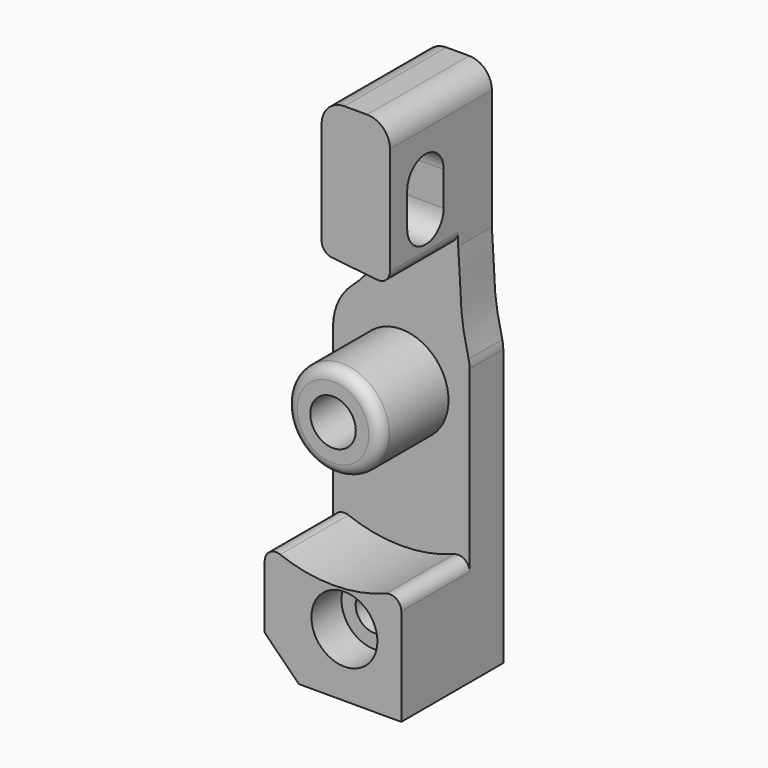
from build123d import *

# Parameters (mm, degrees)
F0_R      = 1.65
F0_R_2    = 2
F1_DEPTH  = 3.7
F2_R      = 4.15
F2_R_2    = 2
F2_R_3    = 1.65
F3_DEPTH  = 7.5
F4_R      = 2
F5_R      = 1
F6_R      = 2.9
F7_DEPTH  = 3.3
F8_R      = 1
F10_DEPTH = 11.0010001
F11_SIZE  = 3


with BuildPart() as f1:
    # F0 (on Front) → F1 (new body)
    with BuildSketch(Plane.XZ):
        with BuildLine():
            Line((5, 23), (-1, 23))
            Line((-1, 23), (-1, 10.4))
            add(Edge.make_bspline(
                [(-1, 10.4), (-1.2111639775, 7.9330686148), (-2.6557673414, 5.8471197981), (-4.3304576575, 4.3515548571)],
                knots=[0, 0, 0, 0, 6.6865737794, 6.6865737794, 6.6865737794, 6.6865737794], degree=3))
            ThreePointArc((-4.3304576575, 4.3515548571), (-5.5635670417, 2.6652064856), (-6, 0.6222048076))
            Line((-6, 0.6222048076), (-6, -23))
            Line((-6, -23), (6, -23))
            Line((6, -23), (6, 1.2846305262))
            ThreePointArc((6, 1.2846305262), (5.9790845004, 1.6382624525), (5.9166296405, 1.9869634531))
            add(Edge.make_bspline(
                [(5, 10.4), (5.3525537919, 5.8237470378), (5.0164384354, 5.7252537292), (5.9166296405, 1.9869634531)],
                knots=[0, 0, 0, 0, 8.5585174857, 8.5585174857, 8.5585174857, 8.5585174857], degree=3))
            Line((5, 10.4), (5, 23))
        make_face()
        with Locations((1, -17.45)):
            Circle(F0_R, mode=Mode.SUBTRACT)
        with Locations((0, -1.77)):
            Circle(F0_R_2, mode=Mode.SUBTRACT)
    extrude(amount=F1_DEPTH)

    # F2 (on face) → F3 (join)
    with BuildSketch(Plane.XZ.offset(3.7)):
        with Locations((0, -1.77)):
            Circle(F2_R)
        with Locations((0, -1.77)):
            Circle(F2_R_2, mode=Mode.SUBTRACT)
        with BuildLine():
            Line((-6, -12.9), (-6, -23))
            Line((-6, -23), (6, -23))
            Line((6, -23), (6, -12.9))
            ThreePointArc((6, -12.9), (0, -14.3674374053), (-6, -12.9))
        make_face()
        with Locations((1, -17.45)):
            Circle(F2_R_3, mode=Mode.SUBTRACT)
        Polygon((5, 23), (-1, 23), (-1, 11.03), (5, 10.4), (5, 10.44), align=None)
    extrude(amount=F3_DEPTH)

    # F4
    f4_edges = [f1.edges().sort_by_distance(p)[0] for p in [
        (5, -5.6, 23),
        (-1, -5.6, 23),
    ]]
    fillet(f4_edges, radius=F4_R)

    # F5
    f5_edges = [f1.edges().sort_by_distance(p)[0] for p in [
        (-1, -7.45, 11.03),
        (5, -7.45, 10.4),
        (6, -7.45, -12.9),
        (-6, -7.45, -12.9),
    ]]
    fillet(f5_edges, radius=F5_R)

    # F6 (on face) → F7 (cut)
    with BuildSketch(Plane.XZ.offset(11.2)):
        with Locations((1, -17.45)):
            Circle(F6_R)
    extrude(amount=-F7_DEPTH, mode=Mode.SUBTRACT)

    # F8
    f8_edges = [f1.edges().sort_by_distance(p)[0] for p in [
        (-4.15, -11.2, -1.77),
    ]]
    fillet(f8_edges, radius=F8_R)

    # F9 (on face) → F10 (cut, through all)
    with BuildSketch(Plane.YZ.offset(5)):
        with BuildLine():
            Line((-5.3, 14.0104973894), (-5.3, 17.0104973894))
            ThreePointArc((-5.3, 17.0104973894), (-7.3, 19.0104973894), (-9.3, 17.0104973894))
            Line((-9.3, 17.0104973894), (-9.3, 14.0104973894))
            ThreePointArc((-9.3, 14.0104973894), (-7.3, 12.0104973894), (-5.3, 14.0104973894))
        make_face()
    extrude(amount=-F10_DEPTH, mode=Mode.SUBTRACT)

    # F11
    f11_edges = [f1.edges().sort_by_distance(p)[0] for p in [
        (-6, -5.6, -23),
    ]]
    chamfer(f11_edges, length=F11_SIZE)


solid = f1.part
